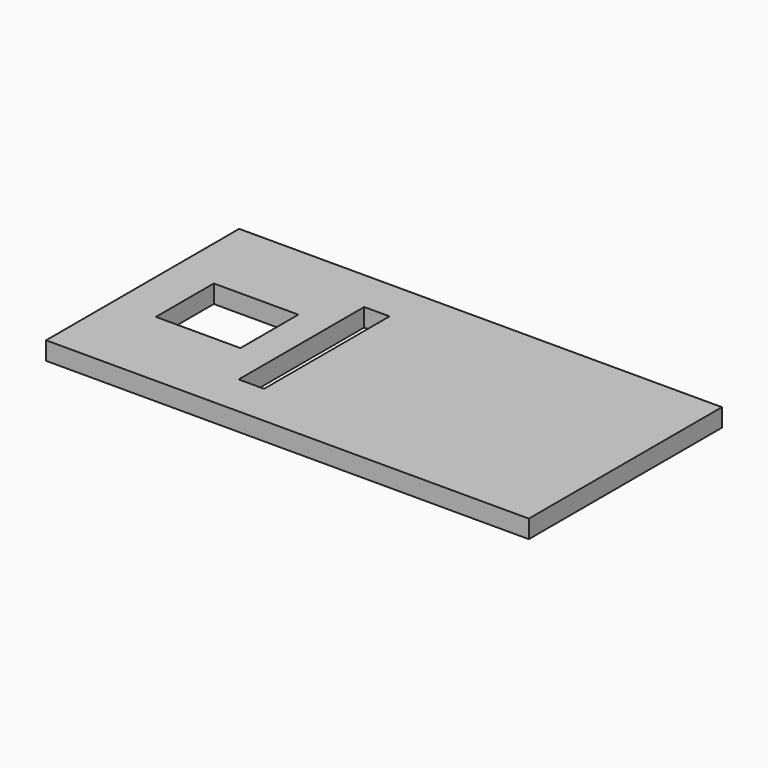
from build123d import *

# Parameters (mm, degrees)
SKETCH053_W     = 400
SKETCH053_H     = 200
PAD027_DEPTH    = 15
SKETCH052_W     = 70
SKETCH052_H     = 60
POCKET018_DEPTH = 15
SKETCH061_W     = 21
SKETCH061_H     = 130
POCKET020_DEPTH = 15.001


with BuildPart() as part:
    # Sketch053 → Pad027 (new body)
    with BuildSketch(Plane.XY):
        Rectangle(SKETCH053_W, SKETCH053_H)
    extrude(amount=PAD027_DEPTH)

    # Sketch052 → Pocket018 (cut)
    with BuildSketch(Plane.XY):
        with Locations((-130, 0)):
            Rectangle(SKETCH052_W, SKETCH052_H)
    extrude(amount=POCKET018_DEPTH, mode=Mode.SUBTRACT)

    # Sketch061 → Pocket020 (cut, through all)
    with BuildSketch(Plane.XY):
        with Locations((-57.925, 0)):
            Rectangle(SKETCH061_W, SKETCH061_H)
    extrude(amount=POCKET020_DEPTH, mode=Mode.SUBTRACT)


with BuildPart() as part_1:
    # Body052 placement: moved
    add(part.part.moved(Location((0, 0, 305))))


solid = part_1.part
